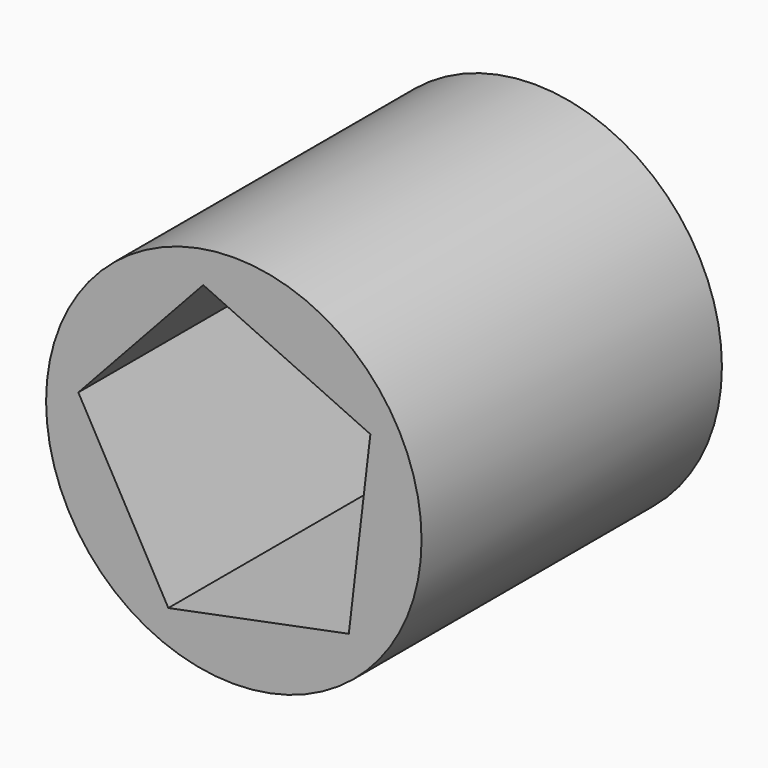
from build123d import *

# Parameters (mm, degrees)
F0_R     = 50
F1_DEPTH = 50
F3_DEPTH = 100


with BuildPart() as f1:
    # F0 (on Front) → F1 (new body, symmetric)
    with BuildSketch(Plane.XZ):
        Circle(F0_R)
    extrude(amount=F1_DEPTH, both=True)

    # F2 (on face) → F3 (cut)
    with BuildSketch(Plane.XZ.offset(50)):
        Polygon((30.624965, -28.289681), (36.36872, 20.384081), (-8.14786, 40.887736), (-41.404375, 4.88593), (-17.441451, -37.868065), align=None)
    extrude(amount=-F3_DEPTH, mode=Mode.SUBTRACT)


solid = f1.part
